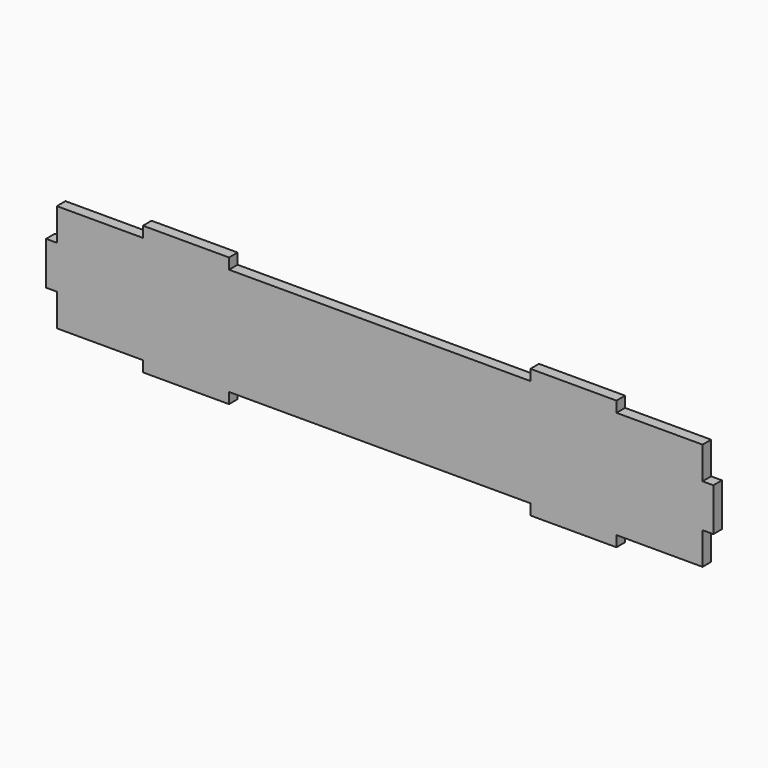
from build123d import *

# Parameters (mm, degrees)
F0_W     = 50.8
F0_H     = 6.35
F0_W_2   = 6.35
F0_H_2   = 25.4
F1_DEPTH = 6.35


with BuildPart() as f1:
    # F0 (on Front) → F1 (new body)
    with BuildSketch(Plane.XZ):
        Polygon((-181.531138, -89.100668), (-181.531138, -108.150668), (-130.731138, -108.150668), (-79.931138, -108.150668), (97.868862, -108.150668), (148.668862, -108.150668), (199.468862, -108.150668), (199.468862, -89.100668), (199.468862, -63.700668), (199.468862, -44.650668), (148.668862, -44.650668), (97.868862, -44.650668), (-79.931138, -44.650668), (-130.731138, -44.650668), (-181.531138, -44.650668), (-181.531138, -63.700668), align=None)
        with Locations((-105.331138, -41.475668)):
            Rectangle(F0_W, F0_H)
        with Locations((-184.706138, -76.400668)):
            Rectangle(F0_W_2, F0_H_2)
        with Locations((-105.331138, -111.325668)):
            Rectangle(F0_W, F0_H)
        with Locations((123.268862, -111.325668)):
            Rectangle(F0_W, F0_H)
        with Locations((123.268862, -41.475668)):
            Rectangle(F0_W, F0_H)
        with Locations((202.643862, -76.400668)):
            Rectangle(F0_W_2, F0_H_2)
    extrude(amount=F1_DEPTH)


solid = f1.part
